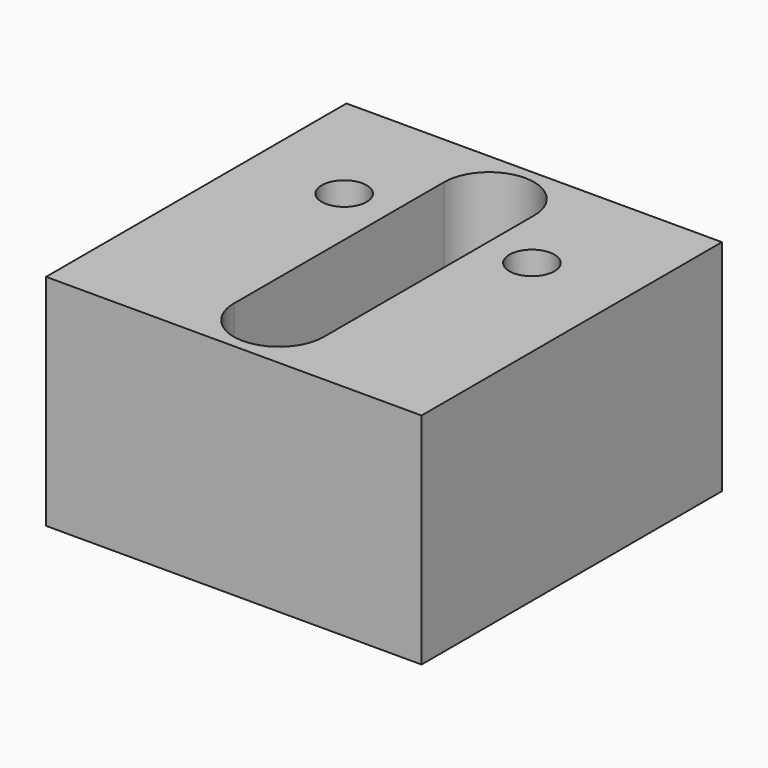
from build123d import *

# Parameters (mm, degrees)
F0_W     = 50
F0_H     = 50
F0_R     = 3
F1_DEPTH = 29.2
F3_DEPTH = 20


with BuildPart() as f1:
    # F0 (on Top) → F1 (new body)
    with BuildSketch(Plane.XY):
        Rectangle(F0_W, F0_H)
        with Locations((-12.5, 9)):
            Circle(F0_R, mode=Mode.SUBTRACT)
        with BuildLine():
            ThreePointArc((-3.5, 17.5), (0, 21), (3.5, 17.5))
            Line((3.5, 17.5), (3.5, -17.5))
            ThreePointArc((3.5, -17.5), (0, -21), (-3.5, -17.5))
            Line((-3.5, -17.5), (-3.5, 17.5))
        make_face(mode=Mode.SUBTRACT)
        with Locations((12.5, 9)):
            Circle(F0_R, mode=Mode.SUBTRACT)
    extrude(amount=F1_DEPTH)

    # F2 (on face) → F3 (cut)
    with BuildSketch(Plane.XY.offset(29.2)):
        with BuildLine():
            Line((6, -17.5), (6, 17.5))
            ThreePointArc((6, 17.5), (0, 23.5), (-6, 17.5))
            Line((-6, 17.5), (-6, -17.5))
            ThreePointArc((-6, -17.5), (0, -23.5), (6, -17.5))
        make_face()
    extrude(amount=-F3_DEPTH, mode=Mode.SUBTRACT)


solid = f1.part
